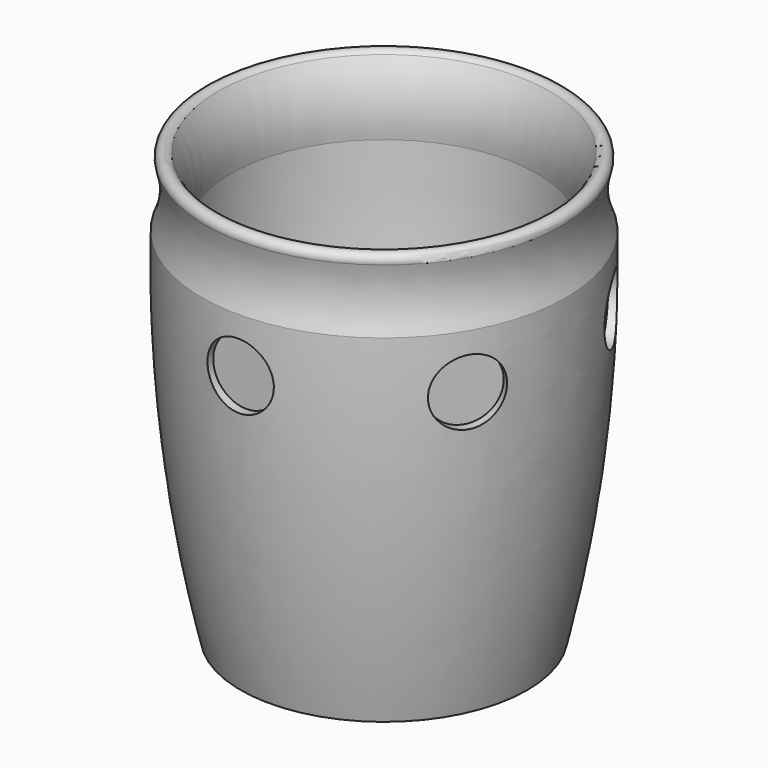
from build123d import *

# Parameters (mm, degrees)
SKETCH001_R        = 9.261071
PAD_DEPTH          = 12
SKETCH002_R        = 75
SKETCH002_R_2      = 56
PAD001_DEPTH       = 120
POLARPATTERN_COUNT = 6
THICKNESS_T        = -1


with BuildPart() as body001:
    # Sketch001 → Pad (new body)
    with BuildSketch(Plane.XZ.offset(60)):
        with Locations((0, 84.843842)):
            Circle(SKETCH001_R)
    pad = extrude(amount=-PAD_DEPTH)

    # Sketch002 → Pad001 (join)
    with BuildSketch(Plane.XY):
        Circle(SKETCH002_R)
        Circle(SKETCH002_R_2, mode=Mode.SUBTRACT)
    extrude(amount=PAD001_DEPTH)

    # PolarPattern: Pad ×6 about axis
    polarpattern_axis = Axis((0, 0, 0), (0, 0, 1))
    for i in range(1, POLARPATTERN_COUNT):
        add(pad.rotate(polarpattern_axis, i * 360 / POLARPATTERN_COUNT))


with BuildPart() as body:
    # Sketch → Revolution (revolve)
    with BuildSketch(Plane.XZ):
        with BuildLine():
            ThreePointArc((40, 0), (48.593305, 49.6568), (50.874715, 100))
            ThreePointArc((49.910192, 117.407407), (48.825882, 108.616902), (50.874715, 100))
            ThreePointArc((49.910192, 117.407407), (48.834185, 119.817728), (46.305145, 119.061822))
            ThreePointArc((46.305145, 119.061822), (42.715443, 109.868899), (42.740303, 100))
            ThreePointArc((32.85167, 11.674122), (40.256791, 55.561558), (42.740303, 100))
            ThreePointArc((27, 7), (30.744645, 8.311969), (32.85167, 11.674122))
            Line((0, 7), (27, 7))
            Line((0, 0), (0, 7))
            Line((40, 0), (0, 0))
        make_face()
    revolve(axis=Axis((0, 0, 0), (0, 0, 1)))

    # Boolean: cut Body001
    add(body001.part, mode=Mode.SUBTRACT)

    # Thickness
    thickness_openings = [body.faces().sort_by_distance(p)[0] for p in [
        (0, 0, 0),
    ]]
    offset(amount=THICKNESS_T, openings=thickness_openings)


solid = body.part
